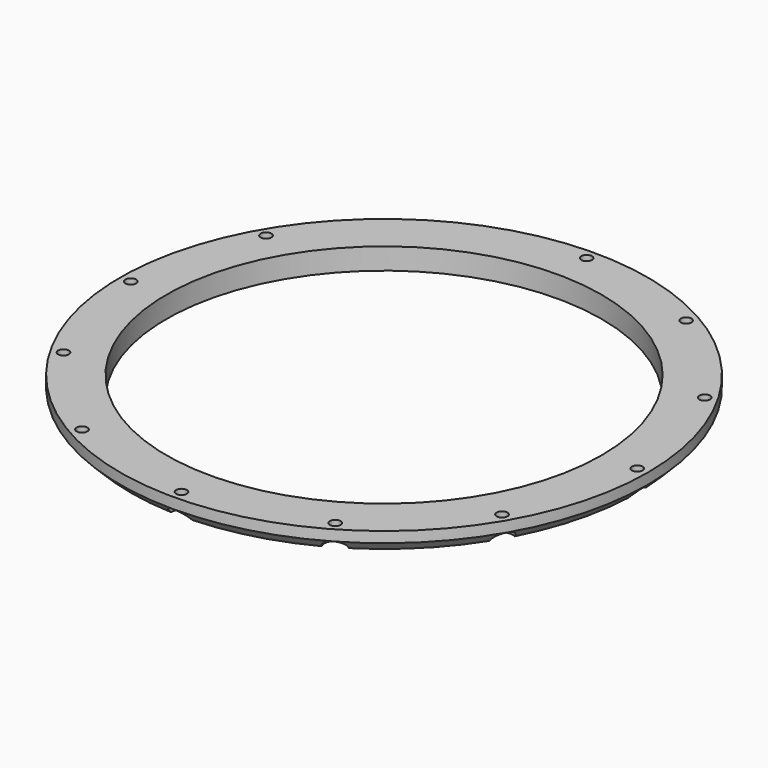
from build123d import *

# Parameters (mm, degrees)
CYLINDER974_R               = 1.5
CYLINDER974_DEPTH           = 60
CYLINDER974_PLACEMENT_ANGLE = 30
CYLINDER975_R               = 1.5
CYLINDER975_DEPTH           = 60
CYLINDER975_PLACEMENT_ANGLE = 60
CYLINDER976_R               = 1.5
CYLINDER976_DEPTH           = 60
CYLINDER977_R               = 1.5
CYLINDER977_DEPTH           = 60
CYLINDER977_PLACEMENT_ANGLE = 120
CYLINDER978_R               = 1.5
CYLINDER978_DEPTH           = 60
CYLINDER978_PLACEMENT_ANGLE = 150
CYLINDER979_R               = 1.5
CYLINDER979_DEPTH           = 60
CYLINDER980_R               = 1.5
CYLINDER980_DEPTH           = 60
CYLINDER980_PLACEMENT_ANGLE = 210
CYLINDER981_R               = 1.5
CYLINDER981_DEPTH           = 60
CYLINDER981_PLACEMENT_ANGLE = 240
CYLINDER982_R               = 1.5
CYLINDER982_DEPTH           = 60
CYLINDER983_R               = 1.5
CYLINDER983_DEPTH           = 60
CYLINDER983_PLACEMENT_ANGLE = 60
CYLINDER973_R               = 1.5
CYLINDER973_DEPTH           = 60
CYLINDER990_R               = 3
CYLINDER990_DEPTH           = 3
CYLINDER990_PLACEMENT_ANGLE = 30
CYLINDER991_R               = 3
CYLINDER991_DEPTH           = 3
CYLINDER991_PLACEMENT_ANGLE = 60
CYLINDER987_R               = 3
CYLINDER987_DEPTH           = 3
CYLINDER988_R               = 3
CYLINDER988_DEPTH           = 3
CYLINDER988_PLACEMENT_ANGLE = 120
CYLINDER984_R               = 3
CYLINDER984_DEPTH           = 3
CYLINDER984_PLACEMENT_ANGLE = 150
CYLINDER989_R               = 3
CYLINDER989_DEPTH           = 3
CYLINDER994_R               = 3
CYLINDER994_DEPTH           = 3
CYLINDER994_PLACEMENT_ANGLE = 210
CYLINDER985_R               = 3
CYLINDER985_DEPTH           = 3
CYLINDER985_PLACEMENT_ANGLE = 240
CYLINDER986_R               = 3
CYLINDER986_DEPTH           = 3
CYLINDER992_R               = 3
CYLINDER992_DEPTH           = 3
CYLINDER992_PLACEMENT_ANGLE = 60
CYLINDER993_R               = 3
CYLINDER993_DEPTH           = 3
TUBE031_R                   = 74
TUBE031_R_2                 = 61
TUBE031_DEPTH               = 6
CHAMFER083_SIZE             = 3
CUT208_PLACEMENT_ANGLE      = 180


with BuildPart() as obj1:
    # Cylinder974 → Cylinder974 (new body)
    with BuildSketch(Plane.XY):
        Circle(CYLINDER974_R)
    extrude(amount=CYLINDER974_DEPTH)


with BuildPart() as obj1_1:
    # Cylinder974 placement: moved
    add(obj1.part.moved(Location((35.5, -61.487804, 0))).rotate(Axis((35.5, -61.487804, 0), (0, 0, 1)), CYLINDER974_PLACEMENT_ANGLE))


with BuildPart() as obj2:
    # Cylinder975 → Cylinder975 (new body)
    with BuildSketch(Plane.XY):
        Circle(CYLINDER975_R)
    extrude(amount=CYLINDER975_DEPTH)


with BuildPart() as obj2_1:
    # Cylinder975 placement: moved
    add(obj2.part.moved(Location((61.487804, -35.5, 0))).rotate(Axis((61.487804, -35.5, 0), (0, 0, 1)), CYLINDER975_PLACEMENT_ANGLE))


with BuildPart() as obj3:
    # Cylinder976 → Cylinder976 (new body)
    with BuildSketch(Plane(origin=(71, 0, 0), x_dir=(0, 1, 0), z_dir=(0, 0, 1))):
        Circle(CYLINDER976_R)
    extrude(amount=CYLINDER976_DEPTH)


with BuildPart() as obj4:
    # Cylinder977 → Cylinder977 (new body)
    with BuildSketch(Plane.XY):
        Circle(CYLINDER977_R)
    extrude(amount=CYLINDER977_DEPTH)


with BuildPart() as obj4_1:
    # Cylinder977 placement: moved
    add(obj4.part.moved(Location((61.487804, 35.5, 0))).rotate(Axis((61.487804, 35.5, 0), (0, 0, 1)), CYLINDER977_PLACEMENT_ANGLE))


with BuildPart() as obj5:
    # Cylinder978 → Cylinder978 (new body)
    with BuildSketch(Plane.XY):
        Circle(CYLINDER978_R)
    extrude(amount=CYLINDER978_DEPTH)


with BuildPart() as obj5_1:
    # Cylinder978 placement: moved
    add(obj5.part.moved(Location((35.5, 61.487804, 0))).rotate(Axis((35.5, 61.487804, 0), (0, 0, 1)), CYLINDER978_PLACEMENT_ANGLE))


with BuildPart() as obj6:
    # Cylinder979 → Cylinder979 (new body)
    with BuildSketch(Plane(origin=(0, 71, 0), x_dir=(-1, 0, 0), z_dir=(0, 0, 1))):
        Circle(CYLINDER979_R)
    extrude(amount=CYLINDER979_DEPTH)


with BuildPart() as obj7:
    # Cylinder980 → Cylinder980 (new body)
    with BuildSketch(Plane.XY):
        Circle(CYLINDER980_R)
    extrude(amount=CYLINDER980_DEPTH)


with BuildPart() as obj7_1:
    # Cylinder980 placement: moved
    add(obj7.part.moved(Location((-35.5, 61.487804, 0))).rotate(Axis((-35.5, 61.487804, 0), (0, 0, 1)), CYLINDER980_PLACEMENT_ANGLE))


with BuildPart() as obj8:
    # Cylinder981 → Cylinder981 (new body)
    with BuildSketch(Plane.XY):
        Circle(CYLINDER981_R)
    extrude(amount=CYLINDER981_DEPTH)


with BuildPart() as obj8_1:
    # Cylinder981 placement: moved
    add(obj8.part.moved(Location((-61.487804, 35.5, 0))).rotate(Axis((-61.487804, 35.5, 0), (0, 0, 1)), CYLINDER981_PLACEMENT_ANGLE))


with BuildPart() as obj9:
    # Cylinder982 → Cylinder982 (new body)
    with BuildSketch(Plane(origin=(-71, 0, 0), x_dir=(0, -1, 0), z_dir=(0, 0, 1))):
        Circle(CYLINDER982_R)
    extrude(amount=CYLINDER982_DEPTH)


with BuildPart() as obj10:
    # Cylinder983 → Cylinder983 (new body)
    with BuildSketch(Plane.XY):
        Circle(CYLINDER983_R)
    extrude(amount=CYLINDER983_DEPTH)


with BuildPart() as obj10_1:
    # Cylinder983 placement: moved
    add(obj10.part.moved(Location((-61.487804, -35.5, 0))).rotate(Axis((-61.487804, -35.5, 0), (0, 0, -1)), CYLINDER983_PLACEMENT_ANGLE))


with BuildPart() as compound525:
    # Cylinder973 → Cylinder973 (new body)
    with BuildSketch(Plane(origin=(0, -71, 0), x_dir=(1, 0, 0), z_dir=(0, 0, 1))):
        Circle(CYLINDER973_R)
    extrude(amount=CYLINDER973_DEPTH)

    # Compound525: union obj1, obj2, obj3, obj4, obj5, obj6, obj7, obj8, obj9, obj10
    add(obj1_1.part)
    add(obj2_1.part)
    add(obj3.part)
    add(obj4_1.part)
    add(obj5_1.part)
    add(obj6.part)
    add(obj7_1.part)
    add(obj8_1.part)
    add(obj9.part)
    add(obj10_1.part)


with BuildPart() as obj11:
    # Cylinder990 → Cylinder990 (new body)
    with BuildSketch(Plane.XY):
        Circle(CYLINDER990_R)
    extrude(amount=CYLINDER990_DEPTH)


with BuildPart() as obj11_1:
    # Cylinder990 placement: moved
    add(obj11.part.moved(Location((35.5, -61.487804, 0))).rotate(Axis((35.5, -61.487804, 0), (0, 0, 1)), CYLINDER990_PLACEMENT_ANGLE))


with BuildPart() as obj12:
    # Cylinder991 → Cylinder991 (new body)
    with BuildSketch(Plane.XY):
        Circle(CYLINDER991_R)
    extrude(amount=CYLINDER991_DEPTH)


with BuildPart() as obj12_1:
    # Cylinder991 placement: moved
    add(obj12.part.moved(Location((61.487804, -35.5, 0))).rotate(Axis((61.487804, -35.5, 0), (0, 0, 1)), CYLINDER991_PLACEMENT_ANGLE))


with BuildPart() as obj13:
    # Cylinder987 → Cylinder987 (new body)
    with BuildSketch(Plane(origin=(71, 0, 0), x_dir=(0, 1, 0), z_dir=(0, 0, 1))):
        Circle(CYLINDER987_R)
    extrude(amount=CYLINDER987_DEPTH)


with BuildPart() as obj14:
    # Cylinder988 → Cylinder988 (new body)
    with BuildSketch(Plane.XY):
        Circle(CYLINDER988_R)
    extrude(amount=CYLINDER988_DEPTH)


with BuildPart() as obj14_1:
    # Cylinder988 placement: moved
    add(obj14.part.moved(Location((61.487804, 35.5, 0))).rotate(Axis((61.487804, 35.5, 0), (0, 0, 1)), CYLINDER988_PLACEMENT_ANGLE))


with BuildPart() as obj15:
    # Cylinder984 → Cylinder984 (new body)
    with BuildSketch(Plane.XY):
        Circle(CYLINDER984_R)
    extrude(amount=CYLINDER984_DEPTH)


with BuildPart() as obj15_1:
    # Cylinder984 placement: moved
    add(obj15.part.moved(Location((35.5, 61.487804, 0))).rotate(Axis((35.5, 61.487804, 0), (0, 0, 1)), CYLINDER984_PLACEMENT_ANGLE))


with BuildPart() as obj16:
    # Cylinder989 → Cylinder989 (new body)
    with BuildSketch(Plane(origin=(0, 71, 0), x_dir=(-1, 0, 0), z_dir=(0, 0, 1))):
        Circle(CYLINDER989_R)
    extrude(amount=CYLINDER989_DEPTH)


with BuildPart() as obj17:
    # Cylinder994 → Cylinder994 (new body)
    with BuildSketch(Plane.XY):
        Circle(CYLINDER994_R)
    extrude(amount=CYLINDER994_DEPTH)


with BuildPart() as obj17_1:
    # Cylinder994 placement: moved
    add(obj17.part.moved(Location((-35.5, 61.487804, 0))).rotate(Axis((-35.5, 61.487804, 0), (0, 0, 1)), CYLINDER994_PLACEMENT_ANGLE))


with BuildPart() as obj18:
    # Cylinder985 → Cylinder985 (new body)
    with BuildSketch(Plane.XY):
        Circle(CYLINDER985_R)
    extrude(amount=CYLINDER985_DEPTH)


with BuildPart() as obj18_1:
    # Cylinder985 placement: moved
    add(obj18.part.moved(Location((-61.487804, 35.5, 0))).rotate(Axis((-61.487804, 35.5, 0), (0, 0, 1)), CYLINDER985_PLACEMENT_ANGLE))


with BuildPart() as obj19:
    # Cylinder986 → Cylinder986 (new body)
    with BuildSketch(Plane(origin=(-71, 0, 0), x_dir=(0, -1, 0), z_dir=(0, 0, 1))):
        Circle(CYLINDER986_R)
    extrude(amount=CYLINDER986_DEPTH)


with BuildPart() as obj20:
    # Cylinder992 → Cylinder992 (new body)
    with BuildSketch(Plane.XY):
        Circle(CYLINDER992_R)
    extrude(amount=CYLINDER992_DEPTH)


with BuildPart() as obj20_1:
    # Cylinder992 placement: moved
    add(obj20.part.moved(Location((-61.487804, -35.5, 0))).rotate(Axis((-61.487804, -35.5, 0), (0, 0, -1)), CYLINDER992_PLACEMENT_ANGLE))


with BuildPart() as compound526:
    # Cylinder993 → Cylinder993 (new body)
    with BuildSketch(Plane(origin=(0, -71, 0), x_dir=(1, 0, 0), z_dir=(0, 0, 1))):
        Circle(CYLINDER993_R)
    extrude(amount=CYLINDER993_DEPTH)

    # Compound526: union obj11, obj12, obj13, obj14, obj15, obj16, obj17, obj18, obj19, obj20
    add(obj11_1.part)
    add(obj12_1.part)
    add(obj13.part)
    add(obj14_1.part)
    add(obj15_1.part)
    add(obj16.part)
    add(obj17_1.part)
    add(obj18_1.part)
    add(obj19.part)
    add(obj20_1.part)


with BuildPart() as compound526_1:
    # Compound526 placement: moved
    add(compound526.part.moved(Location((0, 0, 17))))


with BuildPart() as base_big_ring_seal:
    # Tube031 → Tube031 (new body)
    with BuildSketch(Plane.XY.offset(14)):
        Circle(TUBE031_R)
        Circle(TUBE031_R_2, mode=Mode.SUBTRACT)
    extrude(amount=TUBE031_DEPTH)

    # Chamfer083
    chamfer083_edges = [base_big_ring_seal.edges().sort_by_distance(p)[0] for p in [
        (-74, 0, 20),
    ]]
    chamfer(chamfer083_edges, length=CHAMFER083_SIZE)

    # Cut207: cut Compound526
    add(compound526_1.part, mode=Mode.SUBTRACT)

    # Cut208: cut Compound525
    add(compound525.part, mode=Mode.SUBTRACT)


with BuildPart() as base_big_ring_seal_1:
    # Cut208 placement: moved
    add(base_big_ring_seal.part.moved(Location((0, 0, 17))).rotate(Axis((0, 0, 17), (1, 0, 0)), CUT208_PLACEMENT_ANGLE))


solid = base_big_ring_seal_1.part
